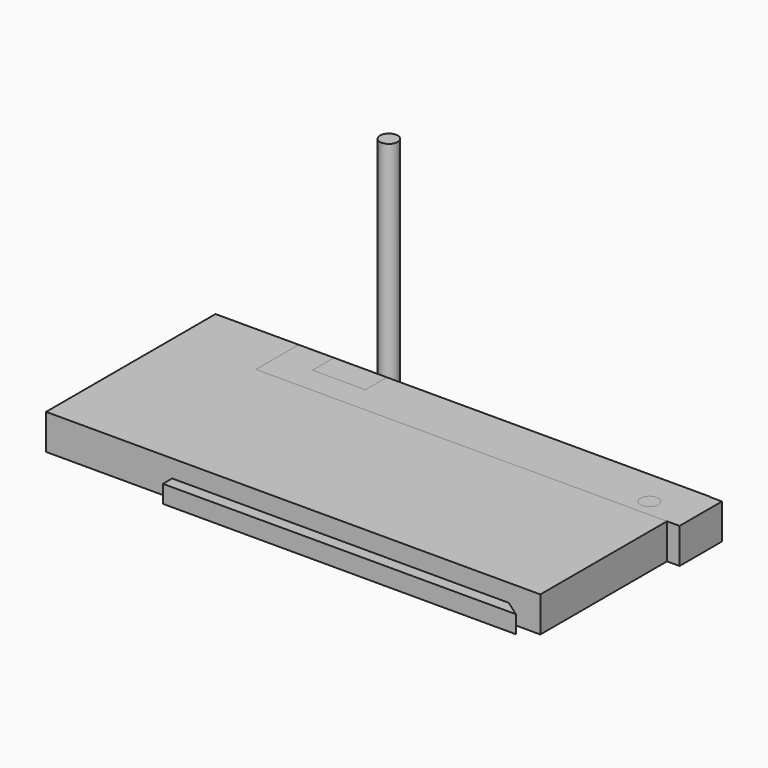
from build123d import *

# Parameters (mm, degrees)
F0_R     = 3.175
F1_DEPTH = 82.55
F2_W     = 177.8
F2_H     = 76.2
F3_DEPTH = 12.7
F4_R     = 3.175
F5_DEPTH = 6.35
F6_R     = 5.08
F7_R     = 3.2004
F8_DEPTH = 12.7


with BuildPart() as f1:
    # F0 (on Top) → F1 (new body)
    with BuildSketch(Plane.XY):
        with Locations((-37.942946, 46.751104)):
            Circle(F0_R)
    extrude(amount=F1_DEPTH)


with BuildPart() as f3:
    # F2 (on Top) → F3 (new body)
    with BuildSketch(Plane.XY):
        with Locations((-4.262611, -0.264204)):
            Rectangle(F2_W, F2_H)
    extrude(amount=F3_DEPTH)


with BuildPart() as f5:
    # F4 (on Top) → F5 (new body)
    with BuildSketch(Plane.XY):
        Polygon((79.202562, -42.531908), (-47.797438, 46.368092), (-47.797438, -42.531908), align=None)
        with Locations((-31.922438, -31.75)):
            Circle(F4_R, mode=Mode.SUBTRACT)
        with Locations((-31.922438, 0)):
            Circle(F4_R, mode=Mode.SUBTRACT)
        with Locations((41.161284, -31.762308)):
            Circle(F4_R, mode=Mode.SUBTRACT)
        with Locations((-19.222438, 14.736757)):
            Circle(F4_R, mode=Mode.SUBTRACT)
    extrude(amount=F5_DEPTH)

    # F6
    f6_edges = [f5.edges().sort_by_distance(p)[0] for p in [
        (-47.797438, 46.368092, 3.175),
    ]]
    fillet(f6_edges, radius=F6_R)


with BuildPart() as f8:
    # F7 (on Top) → F8 (new body)
    with BuildSketch(Plane.XY):
        Polygon((-50.553657, 37.657042), (-63.253657, 37.657042), (-63.253657, 18.607042), (89.146343, 18.607042), (89.146343, 37.657042), (-31.503657, 37.657042), (-31.503657, 28.132042), (-50.553657, 28.132042), align=None)
        with Locations((73.245943, 24.931642)):
            Circle(F7_R, mode=Mode.SUBTRACT)
    extrude(amount=F8_DEPTH)


solid = Compound([f1.part, f3.part, f5.part, f8.part])
